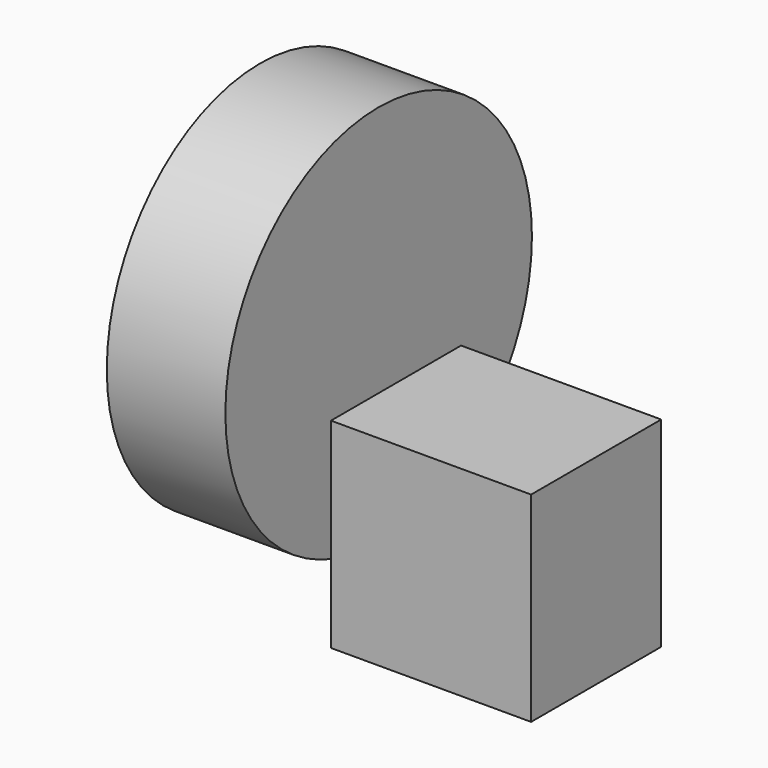
from build123d import *

# Parameters (mm, degrees)
F0_W     = 40
F0_H     = 40
F1_DEPTH = 32.5
F2_W     = 23.697251454
F2_H     = 38.2912866771


with BuildPart() as f1:
    # F0 (on Front) → F1 (new body)
    with BuildSketch(Plane.XZ):
        with Locations((20, 20)):
            Rectangle(F0_W, F0_H)
    extrude(amount=F1_DEPTH)


with BuildPart() as f3:
    # F2 (on Front) → F3 (revolve)
    with BuildSketch(Plane.XZ):
        with Locations((-28.3211013302, 19.1456433386)):
            Rectangle(F2_W, F2_H)
    revolve(axis=Axis((-52.8853219002, 0, 38.2912866771), (-1, 0, 0)))


solid = Compound([f1.part, f3.part])
